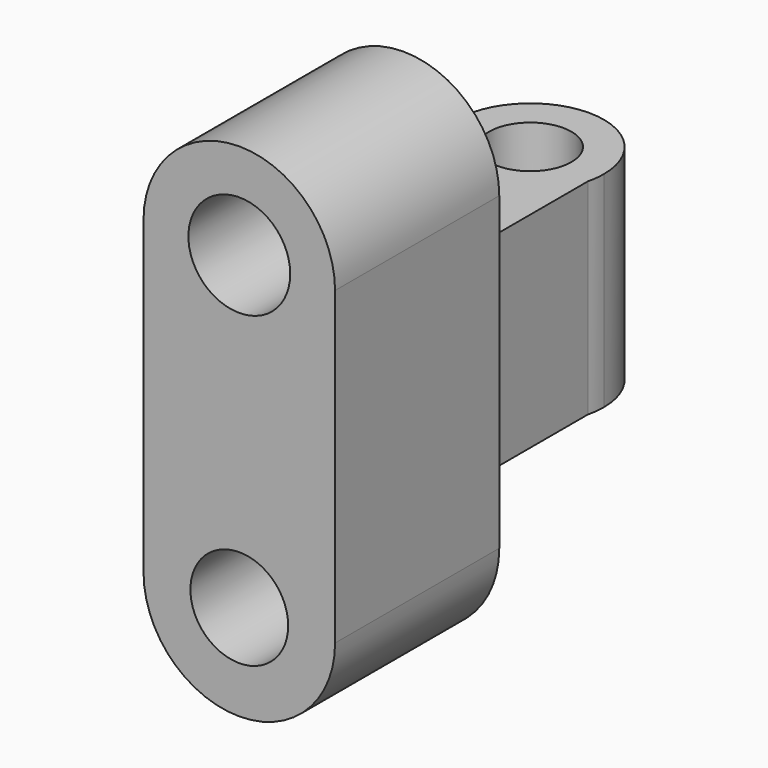
from build123d import *

# Parameters (mm, degrees)
F0_R          = 18.15
F0_R_2        = 18.902714
F1_DEPTH      = 76.2
F2_R          = 15.292953
F3_DEPTH      = 38.1
F3_DEPTH_BACK = 38.1


with BuildPart() as f1:
    # F0 (on Front) → F1 (new body)
    with BuildSketch(Plane.XZ):
        with BuildLine():
            Line((35.557076, -57.612903), (35.557076, 57.612903))
            ThreePointArc((35.557076, 57.612903), (0, 93.16998), (-35.557076, 57.612903))
            Line((-35.557076, 57.612903), (-35.557076, -57.612903))
            ThreePointArc((-35.557076, -57.612903), (0, -93.16998), (35.557076, -57.612903))
        make_face()
        with Locations((0, -57.612903)):
            Circle(F0_R, mode=Mode.SUBTRACT)
        with Locations((0, 57.612903)):
            Circle(F0_R_2, mode=Mode.SUBTRACT)
    extrude(amount=F1_DEPTH)

    # F2 (on Top) → F3 (join, two sides)
    with BuildSketch(Plane.XY) as f3_sk:
        with BuildLine():
            ThreePointArc((-26.573732, 52.381215), (0, 31.492677), (26.573732, 52.381215))
            ThreePointArc((26.573732, 52.381215), (27.153292, 55.587559), (27.347397, 58.840074))
            ThreePointArc((27.347397, 58.840074), (-3.252515, 85.993366), (-26.573732, 52.381215))
        make_face()
        with Locations((0, 58.840074)):
            Circle(F2_R, mode=Mode.SUBTRACT)
        with BuildLine():
            Line((26.573732, 0), (26.573732, 52.381215))
            ThreePointArc((26.573732, 52.381215), (0, 31.492677), (-26.573732, 52.381215))
            Line((-26.573732, 52.381215), (-26.573732, 0))
            Line((-26.573732, 0), (26.573732, 0))
        make_face()
    extrude(amount=F3_DEPTH)
    extrude(f3_sk.sketch, amount=-F3_DEPTH_BACK)


solid = f1.part
